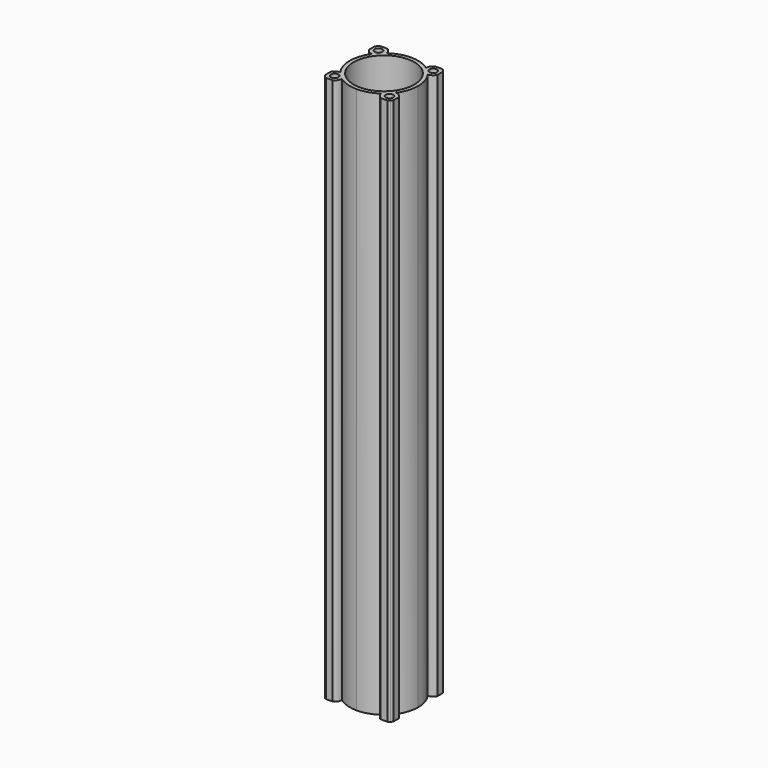
from build123d import *

# Parameters (mm, degrees)
F1_DEPTH = 360
F3_D     = 40
F5_D     = 5


with BuildPart() as f1:
    # F0 (on Top) → F1 (new body)
    with BuildSketch(Plane.XY):
        with BuildLine():
            Line((-14.4956890143, -14.4956890143), (0, 0))
            Line((0, 0), (-14.4956890143, 14.4956890143))
            ThreePointArc((-14.4956890143, 14.4956890143), (-16.2593773691, 13.3556947851), (-18.3356322814, 13.0404980289))
            ThreePointArc((-18.3356322814, 13.0404980289), (-21.4336385815, 6.8446429532), (-22.5, 4.93e-08))
            ThreePointArc((-22.5, 4.93e-08), (-21.4336385965, -6.8446429062), (-18.3356322814, -13.0404980289))
            ThreePointArc((-18.3356322814, -13.0404980289), (-16.2593773691, -13.3556947851), (-14.4956890143, -14.4956890143))
        make_face()
        with BuildLine():
            Line((-14.4956890143, 14.4956890143), (0, 0))
            Line((0, 0), (14.4956890143, 14.4956890143))
            ThreePointArc((14.4956890143, 14.4956890143), (13.3556947851, 16.2593773691), (13.0404980289, 18.3356322814))
            ThreePointArc((13.0404980289, 18.3356322814), (6.8446429123, 21.4336385946), (-3.64e-08, 22.5))
            ThreePointArc((-3.64e-08, 22.5), (-6.844642947, 21.4336385835), (-13.0404980289, 18.3356322814))
            ThreePointArc((-13.0404980289, 18.3356322814), (-13.0335422353, 18.1834982357), (-13.0312229203, 18.0312229203))
            ThreePointArc((-13.0312229203, 18.0312229203), (-13.4118252577, 16.1178057584), (-14.4956890143, 14.4956890143))
        make_face()
        with BuildLine():
            Line((0, 0), (22.5, 0))
            ThreePointArc((22.5, 0), (21.433638589, 6.8446429297), (18.3356322814, 13.0404980289))
            ThreePointArc((18.3356322814, 13.0404980289), (16.2593773691, 13.3556947851), (14.4956890143, 14.4956890143))
            Line((14.4956890143, 14.4956890143), (0, 0))
        make_face()
        with BuildLine():
            ThreePointArc((18.3356322814, -13.0404980289), (21.433638589, -6.8446429297), (22.5, 0))
            Line((22.5, 0), (0, 0))
            Line((0, 0), (14.4956890143, -14.4956890143))
            ThreePointArc((14.4956890143, -14.4956890143), (16.2593773691, -13.3556947851), (18.3356322814, -13.0404980289))
        make_face()
        with BuildLine():
            Line((14.4956890143, -14.4956890143), (0, 0))
            Line((0, 0), (-14.4956890143, -14.4956890143))
            ThreePointArc((-14.4956890143, -14.4956890143), (-13.4118252577, -16.1178057584), (-13.0312229203, -18.0312229203))
            ThreePointArc((-13.0312229203, -18.0312229203), (-13.0335422353, -18.1834982357), (-13.0404980289, -18.3356322814))
            ThreePointArc((-13.0404980289, -18.3356322814), (-6.8446429175, -21.4336385929), (2.56e-08, -22.5))
            ThreePointArc((2.56e-08, -22.5), (6.8446429419, -21.4336385851), (13.0404980289, -18.3356322814))
            ThreePointArc((13.0404980289, -18.3356322814), (13.3556947851, -16.2593773691), (14.4956890143, -14.4956890143))
        make_face()
        with BuildLine():
            ThreePointArc((-18.3356322814, 13.0404980289), (-16.2593773691, 13.3556947851), (-14.4956890143, 14.4956890143))
            Line((-14.4956890143, 14.4956890143), (-15.9099025767, 15.9099025767))
            ThreePointArc((-15.9099025767, 15.9099025767), (-17.18276855, 14.5259238934), (-18.3356322814, 13.0404980289))
        make_face()
        with BuildLine():
            Line((-15.9099025767, 15.9099025767), (-14.4956890143, 14.4956890143))
            ThreePointArc((-14.4956890143, 14.4956890143), (-13.4118252577, 16.1178057584), (-13.0312229203, 18.0312229203))
            ThreePointArc((-13.0312229203, 18.0312229203), (-13.0335422353, 18.1834982357), (-13.0404980289, 18.3356322814))
            ThreePointArc((-13.0404980289, 18.3356322814), (-14.5259238934, 17.18276855), (-15.9099025767, 15.9099025767))
        make_face()
        with BuildLine():
            Line((-18.0312229203, 18.0312229203), (-15.9099025767, 15.9099025767))
            ThreePointArc((-15.9099025767, 15.9099025767), (-14.5259238934, 17.18276855), (-13.0404980289, 18.3356322814))
            ThreePointArc((-13.0404980289, 18.3356322814), (-13.8579312806, 20.7850633096), (-15.7884497682, 22.5))
            Line((-15.7884497682, 22.5), (-20.2739960723, 22.5))
            ThreePointArc((-20.2739960723, 22.5), (-20.9578154473, 22.0852402094), (-21.5667568262, 21.5667568262))
            Line((-21.5667568262, 21.5667568262), (-18.0312229203, 18.0312229203))
        make_face()
        with BuildLine():
            ThreePointArc((-18.3356322814, 13.0404980289), (-17.18276855, 14.5259238934), (-15.9099025767, 15.9099025767))
            Line((-15.9099025767, 15.9099025767), (-18.0312229203, 18.0312229203))
            Line((-18.0312229203, 18.0312229203), (-21.5667568262, 21.5667568262))
            ThreePointArc((-21.5667568262, 21.5667568262), (-22.0852402094, 20.9578154473), (-22.5, 20.2739960723))
            Line((-22.5, 20.2739960723), (-22.5, 15.7884497682))
            ThreePointArc((-22.5, 15.7884497682), (-20.7850633096, 13.8579312806), (-18.3356322814, 13.0404980289))
        make_face()
        with BuildLine():
            ThreePointArc((13.0404980289, 18.3356322814), (14.5259238934, 17.18276855), (15.9099025767, 15.9099025767))
            Line((15.9099025767, 15.9099025767), (21.5667568262, 21.5667568262))
            ThreePointArc((21.5667568262, 21.5667568262), (20.9578154473, 22.0852402094), (20.2739960723, 22.5))
            Line((20.2739960723, 22.5), (15.7884497682, 22.5))
            ThreePointArc((15.7884497682, 22.5), (13.8579312806, 20.7850633096), (13.0404980289, 18.3356322814))
        make_face()
        with BuildLine():
            ThreePointArc((15.9099025767, 15.9099025767), (17.18276855, 14.5259238934), (18.3356322814, 13.0404980289))
            ThreePointArc((18.3356322814, 13.0404980289), (20.7850633096, 13.8579312806), (22.5, 15.7884497682))
            Line((22.5, 15.7884497682), (22.5, 20.2739960723))
            ThreePointArc((22.5, 20.2739960723), (22.0852402094, 20.9578154473), (21.5667568262, 21.5667568262))
            Line((21.5667568262, 21.5667568262), (15.9099025767, 15.9099025767))
        make_face()
        with BuildLine():
            ThreePointArc((14.4956890143, 14.4956890143), (16.2593773691, 13.3556947851), (18.3356322814, 13.0404980289))
            ThreePointArc((18.3356322814, 13.0404980289), (17.18276855, 14.5259238934), (15.9099025767, 15.9099025767))
            Line((15.9099025767, 15.9099025767), (14.4956890143, 14.4956890143))
        make_face()
        with BuildLine():
            Line((14.4956890143, 14.4956890143), (15.9099025767, 15.9099025767))
            ThreePointArc((15.9099025767, 15.9099025767), (14.5259238934, 17.18276855), (13.0404980289, 18.3356322814))
            ThreePointArc((13.0404980289, 18.3356322814), (13.3556947851, 16.2593773691), (14.4956890143, 14.4956890143))
        make_face()
        with BuildLine():
            Line((21.5667568262, -21.5667568262), (15.9099025767, -15.9099025767))
            ThreePointArc((15.9099025767, -15.9099025767), (14.5259238934, -17.18276855), (13.0404980289, -18.3356322814))
            ThreePointArc((13.0404980289, -18.3356322814), (13.8579312806, -20.7850633096), (15.7884497682, -22.5))
            Line((15.7884497682, -22.5), (20.2739960723, -22.5))
            ThreePointArc((20.2739960723, -22.5), (20.9578154473, -22.0852402094), (21.5667568262, -21.5667568262))
        make_face()
        with BuildLine():
            ThreePointArc((22.5, -15.7884497682), (20.7850633096, -13.8579312806), (18.3356322814, -13.0404980289))
            ThreePointArc((18.3356322814, -13.0404980289), (17.18276855, -14.5259238934), (15.9099025767, -15.9099025767))
            Line((15.9099025767, -15.9099025767), (21.5667568262, -21.5667568262))
            ThreePointArc((21.5667568262, -21.5667568262), (22.0852402094, -20.9578154473), (22.5, -20.2739960723))
            Line((22.5, -20.2739960723), (22.5, -15.7884497682))
        make_face()
        with BuildLine():
            ThreePointArc((15.9099025767, -15.9099025767), (17.18276855, -14.5259238934), (18.3356322814, -13.0404980289))
            ThreePointArc((18.3356322814, -13.0404980289), (16.2593773691, -13.3556947851), (14.4956890143, -14.4956890143))
            Line((14.4956890143, -14.4956890143), (15.9099025767, -15.9099025767))
        make_face()
        with BuildLine():
            ThreePointArc((13.0404980289, -18.3356322814), (14.5259238934, -17.18276855), (15.9099025767, -15.9099025767))
            Line((15.9099025767, -15.9099025767), (14.4956890143, -14.4956890143))
            ThreePointArc((14.4956890143, -14.4956890143), (13.3556947851, -16.2593773691), (13.0404980289, -18.3356322814))
        make_face()
        with BuildLine():
            Line((-21.5667568262, -21.5667568262), (-15.9099025767, -15.9099025767))
            ThreePointArc((-15.9099025767, -15.9099025767), (-17.18276855, -14.5259238934), (-18.3356322814, -13.0404980289))
            ThreePointArc((-18.3356322814, -13.0404980289), (-20.7850633096, -13.8579312806), (-22.5, -15.7884497682))
            Line((-22.5, -15.7884497682), (-22.5, -20.2739960723))
            ThreePointArc((-22.5, -20.2739960723), (-22.0852402094, -20.9578154473), (-21.5667568262, -21.5667568262))
        make_face()
        with BuildLine():
            ThreePointArc((-13.0404980289, -18.3356322814), (-14.5259238934, -17.18276855), (-15.9099025767, -15.9099025767))
            Line((-15.9099025767, -15.9099025767), (-21.5667568262, -21.5667568262))
            ThreePointArc((-21.5667568262, -21.5667568262), (-20.9578154473, -22.0852402094), (-20.2739960723, -22.5))
            Line((-20.2739960723, -22.5), (-15.7884497682, -22.5))
            ThreePointArc((-15.7884497682, -22.5), (-13.8579312806, -20.7850633096), (-13.0404980289, -18.3356322814))
        make_face()
        with BuildLine():
            ThreePointArc((-13.0312229203, -18.0312229203), (-13.4118252577, -16.1178057584), (-14.4956890143, -14.4956890143))
            Line((-14.4956890143, -14.4956890143), (-15.9099025767, -15.9099025767))
            ThreePointArc((-15.9099025767, -15.9099025767), (-14.5259238934, -17.18276855), (-13.0404980289, -18.3356322814))
            ThreePointArc((-13.0404980289, -18.3356322814), (-13.0335422353, -18.1834982357), (-13.0312229203, -18.0312229203))
        make_face()
        with BuildLine():
            Line((-15.9099025767, -15.9099025767), (-14.4956890143, -14.4956890143))
            ThreePointArc((-14.4956890143, -14.4956890143), (-16.2593773691, -13.3556947851), (-18.3356322814, -13.0404980289))
            ThreePointArc((-18.3356322814, -13.0404980289), (-17.18276855, -14.5259238934), (-15.9099025767, -15.9099025767))
        make_face()
    extrude(amount=F1_DEPTH)

    # F3 (through all)
    with Locations(Plane.XY.offset(360)):
        with Locations((0, 0)):
            Hole(F3_D / 2)

    # F5 (through all)
    with Locations(Plane.XY.offset(360)):
        with Locations((-18.0312229203, 18.0312229203), (18.0312229203, 18.0312229203), (18.0312229203, -18.0312229203), (-18.0312229203, -18.0312229203)):
            Hole(F5_D / 2)


solid = f1.part
